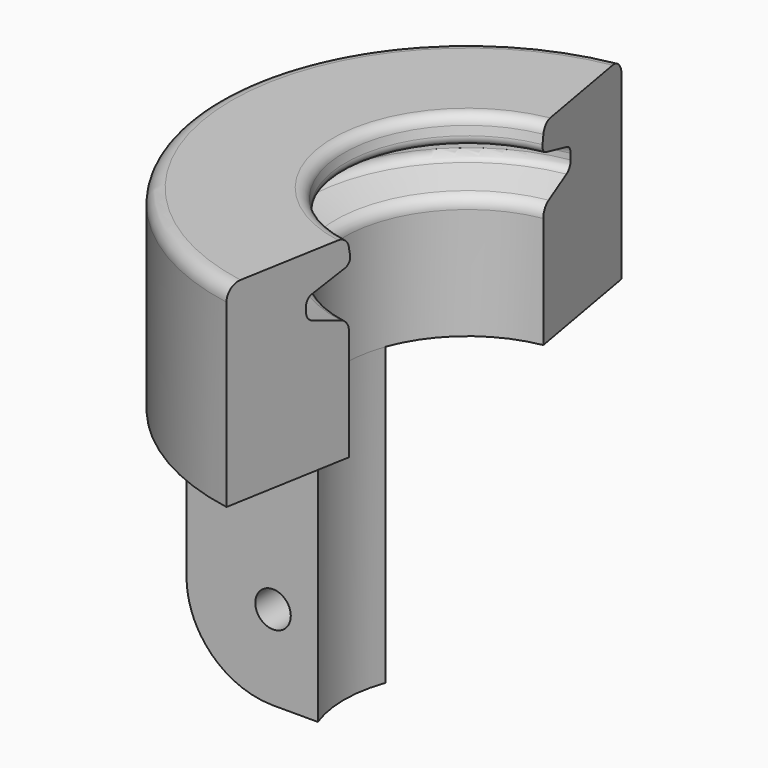
from build123d import *

# Parameters (mm, degrees)
REVOLUTION002_ANGLE = 160
PAD003_DEPTH        = 35
FILLET_R            = 10
SKETCH016_R         = 2.1
POCKET006_DEPTH     = 34.2030828023


with BuildPart() as part:
    # Sketch013 → Revolution002 (revolve, symmetric)
    with BuildSketch(Plane.XZ) as revolution002_sk:
        with BuildLine():
            Line((-14.592572, -91.29162), (-14.592572, -78.10162))
            ThreePointArc((-14.592572, -78.10162), (-14.8782194915, -77.2178434814), (-15.6270897945, -76.6684358973))
            Line((-15.6270897945, -76.6684358973), (-19.0629351267, -75.5285381595))
            ThreePointArc((-19.8645151397, -74.4180577621), (-19.6431856264, -75.1028382434), (-19.0629351267, -75.5285381595))
            Line((-19.8645151397, -74.4180577621), (-19.8645151397, -73.7280577621))
            ThreePointArc((-19.1361680024, -72.7285381595), (-19.6631126608, -73.1096871232), (-19.8645151397, -73.7280577621))
            Line((-19.1361680024, -72.7285381595), (-15.100012655, -71.4296732661))
            ThreePointArc((-15.100012655, -71.4296732661), (-14.5676210475, -71.009067316), (-14.4410938084, -70.3424782022))
            Line((-14.4410938084, -70.3424782022), (-14.6116789932, -69.3469880241))
            ThreePointArc((-14.6116789932, -69.3469880241), (-15.0652099201, -68.5548455589), (-15.922572, -68.24162))
            Line((-15.922572, -68.24162), (-27.932572, -68.24162))
            ThreePointArc((-27.932572, -68.24162), (-29.1487956636, -68.7453963364), (-29.652572, -69.96162))
            Line((-29.652572, -69.96162), (-29.652572, -91.29162))
            Line((-29.652572, -91.29162), (-14.592572, -91.29162))
        make_face()
    revolve(axis=Axis((0, 0, 0), (0, 0, 1)), revolution_arc=REVOLUTION002_ANGLE / 2)
    revolve(revolution002_sk.sketch, axis=Axis((0, 0, 0), (0, 0, -1)), revolution_arc=REVOLUTION002_ANGLE / 2)

    # Sketch014 (on Face8 of Revolution002) → Pad003 (new body)
    with BuildSketch(Plane(origin=(0, 0, -91.29162), x_dir=(1, 0, 0), z_dir=(0, 0, -1))):
        with BuildLine():
            Line((-29.2279836153, 5), (-13.7092362141, 5))
            ThreePointArc((-13.7092362141, 5), (-14.592572, 0), (-13.7092362141, -5))
            Line((-29.2279836153, -5), (-13.7092362141, -5))
            ThreePointArc((-29.2279836153, 5), (-29.652572, 0), (-29.2279836153, -5))
        make_face()
    extrude(amount=PAD003_DEPTH)

    # Fillet
    fillet_edges = [part.edges().sort_by_distance(p)[0] for p in [
        (-29.652572, 0, -126.29162),
    ]]
    fillet(fillet_edges, radius=FILLET_R)

    # Sketch016 (on Face2 of Fillet) → Pocket006 (cut, through all)
    with BuildSketch(Plane.XZ.offset(5)):
        with Locations((-19.005882937, -116.29162)):
            Circle(SKETCH016_R)
    extrude(amount=-POCKET006_DEPTH, mode=Mode.SUBTRACT)


solid = part.part
